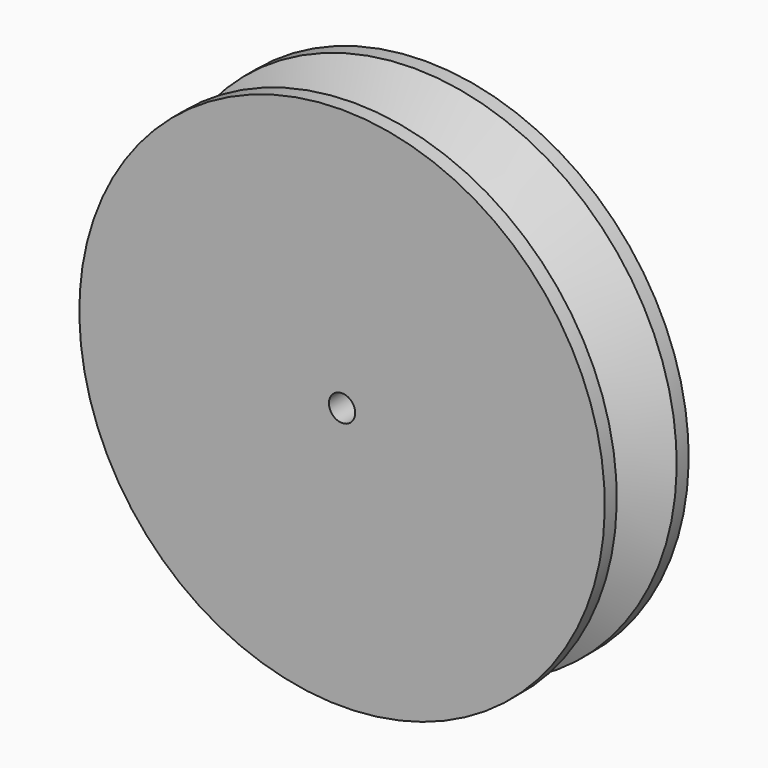
from build123d import *

# Parameters (mm, degrees)
F2_R     = 2.5
F3_DEPTH = 19.957699


with BuildPart() as f1:
    # F0 (on Right) → F1 (revolve)
    with BuildSketch(Plane.YZ):
        with BuildLine():
            Line((-19.956699, 0), (0, 0))
            Line((0, 0), (0, 50))
            Line((0, 50), (-2.848848, 50))
            Line((-2.848848, 50), (-9.376793, 39.439311))
            ThreePointArc((-9.376793, 39.439311), (-9.978349, 39.103951), (-10.579905, 39.439311))
            Line((-10.579905, 39.439311), (-17.107851, 50))
            Line((-17.107851, 50), (-19.956699, 50))
            Line((-19.956699, 50), (-19.956699, 0))
        make_face()
    revolve(axis=Axis((0, -9.956699, 0), (0, 1, 0)))

    # F2 (on face) → F3 (cut, through all)
    with BuildSketch(Plane.XZ.offset(19.956699)):
        Circle(F2_R)
    extrude(amount=-F3_DEPTH, mode=Mode.SUBTRACT)


solid = f1.part
